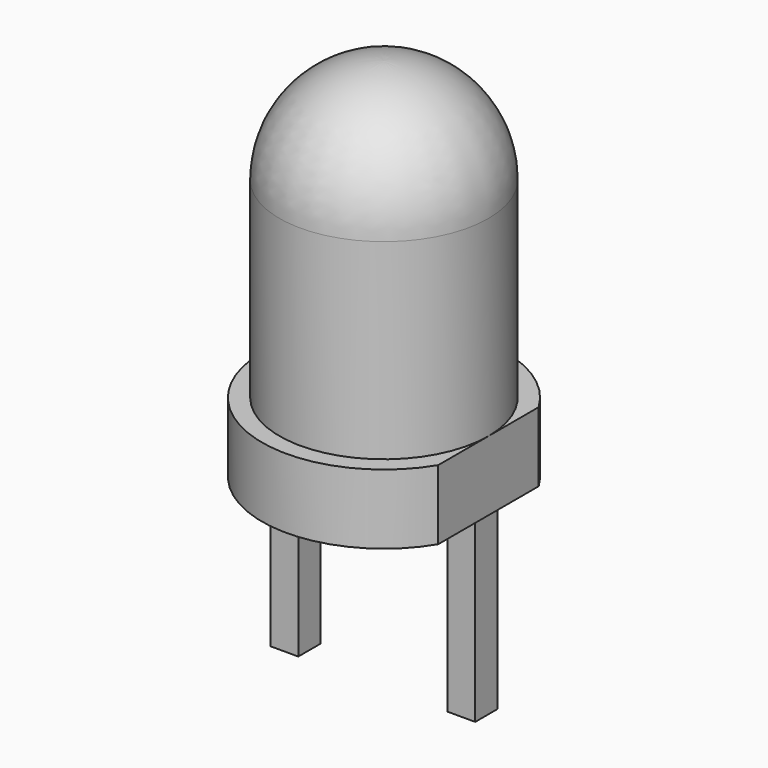
from build123d import *

# Parameters (mm, degrees)
POCKET002005_DEPTH = 1
SKETCH004_W        = 0.4
SKETCH004_H        = 0.4
PAD002_DEPTH       = 2.54


with BuildPart() as part:
    # Sketch002 → Revolution (revolve)
    with BuildSketch(Plane.XZ):
        with BuildLine():
            Line((0, 0), (0, 5.25))
            ThreePointArc((1.5, 3.75), (1.06066, 4.81066), (0, 5.25))
            Line((1.5, 3.75), (1.5, 1))
            Line((1.5, 1), (1.75, 1))
            Line((1.75, 1), (1.75, 0))
            Line((1.75, 0), (0, 0))
        make_face()
    revolve(axis=Axis((0, 0, 0), (0, 0, 1)))

    # Sketch003 (on Face3 of Revolution) → Pocket002005 (cut)
    with BuildSketch(Plane(origin=(0, 0, 1), x_dir=(-1, 0, 0), z_dir=(0, 0, 1))):
        with BuildLine():
            Line((-1.5, 0.901388), (-1.5, -0.901388))
            ThreePointArc((-1.5, 0.901388), (-1.75, 0), (-1.5, -0.901388))
        make_face()
    extrude(amount=-POCKET002005_DEPTH, mode=Mode.SUBTRACT)

    # Sketch004 (on Face6 of Pocket002005) → Pad002 (join)
    with BuildSketch(Plane(origin=(0, 0, 0), x_dir=(1, 0, 0), z_dir=(0, 0, -1))):
        with Locations((1.27, 0)):
            Rectangle(SKETCH004_W, SKETCH004_H)
        with Locations((-1.27, 0)):
            Rectangle(SKETCH004_W, SKETCH004_H)
    extrude(amount=PAD002_DEPTH)


solid = part.part
